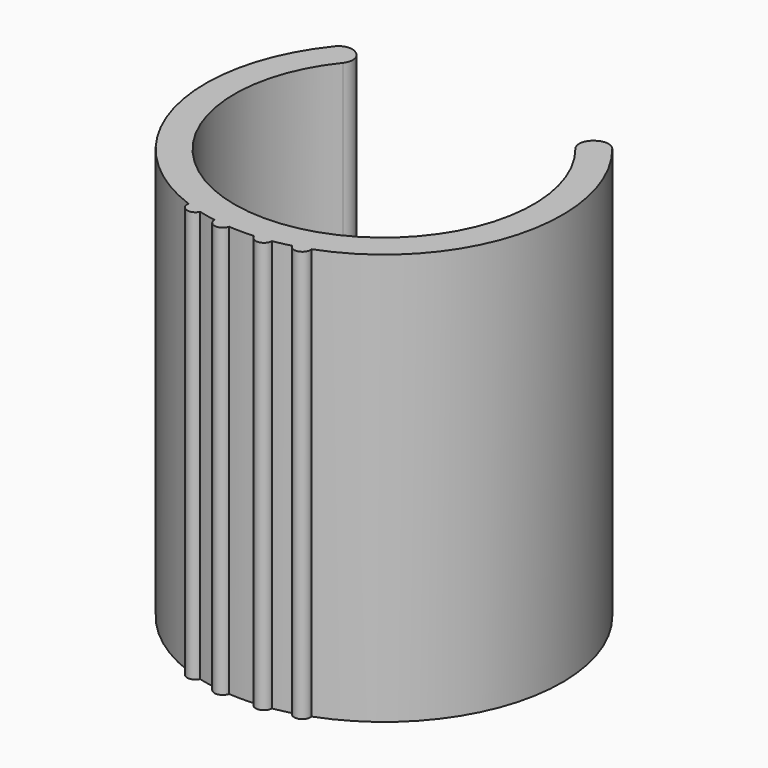
from build123d import *

# Parameters (mm, degrees)
F1_DEPTH      = 15
F1_DEPTH_BACK = 15
F3_R          = 2
F4_DEPTH      = 5.5
F5_R          = 2


with BuildPart() as f1:
    # F0 (on Top) → F1 (new body, two sides)
    with BuildSketch(Plane.XY) as f1_sk:
        with BuildLine():
            ThreePointArc((-8.801296, 8.371598), (-9.502154, 8.518054), (-10.121276, 8.158417))
            ThreePointArc((-10.121276, 8.158417), (-12.52886, -3.468091), (-4.485436, -12.201675))
            ThreePointArc((-4.485436, -12.201675), (-4.076574, -12.883522), (-3.349904, -12.560977))
            ThreePointArc((-3.349904, -12.560977), (-2.728421, -12.710457), (-2.100341, -12.829208))
            ThreePointArc((-2.100341, -12.829208), (-1.570219, -13.413333), (-0.919519, -12.967439))
            ThreePointArc((-0.919519, -12.967439), (0, -13), (0.919519, -12.967439))
            ThreePointArc((0.919519, -12.967439), (1.570219, -13.413333), (2.100341, -12.829208))
            ThreePointArc((2.100341, -12.829208), (2.728421, -12.710457), (3.349904, -12.560977))
            ThreePointArc((3.349904, -12.560977), (4.076574, -12.883522), (4.485436, -12.201675))
            ThreePointArc((4.485436, -12.201675), (12.52886, -3.468091), (10.121276, 8.158417))
            ThreePointArc((10.121276, 8.158417), (9.502154, 8.518054), (8.801296, 8.371598))
            Line((8.801296, 8.371598), (8.716739, 8.317146))
            ThreePointArc((8.716739, 8.317146), (8.270881, 7.635389), (8.480163, 6.848126))
            ThreePointArc((8.480163, 6.848126), (0, -10.9), (-8.480163, 6.848126))
            ThreePointArc((-8.480163, 6.848126), (-8.270881, 7.635389), (-8.716739, 8.317146))
            Line((-8.716739, 8.317146), (-8.801296, 8.371598))
        make_face()
    extrude(amount=F1_DEPTH)
    extrude(f1_sk.sketch, amount=-F1_DEPTH_BACK)

    # F3 (on offset) → F4 (join)
    with BuildSketch(Plane.XZ.offset(11.5)):
        Circle(F3_R)
    extrude(amount=-F4_DEPTH)

    # F5
    f5_edges = [f1.edges().sort_by_distance(p)[0] for p in [
        (-2, -6, 0),
    ]]
    fillet(f5_edges, radius=F5_R)


solid = f1.part
